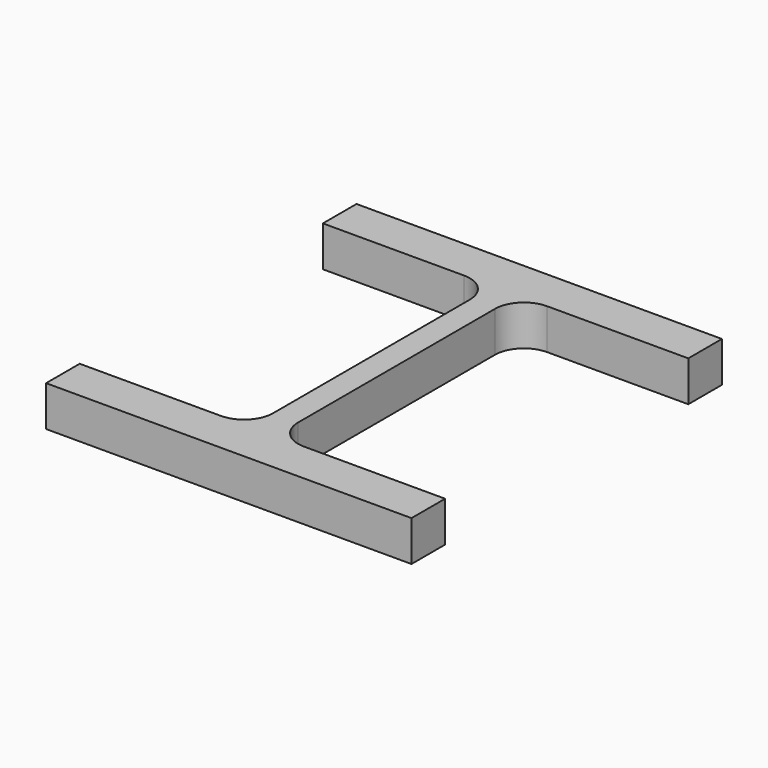
from build123d import *

# Parameters (mm, degrees)
F1_DEPTH = 25


with BuildPart() as f1:
    # F0 (on Top) → F1 (new body)
    with BuildSketch(Plane.XY):
        with BuildLine():
            Line((226, 0), (0, 0))
            Line((0, 0), (0, -26))
            Line((0, -26), (87.25, -26))
            ThreePointArc((87.25, -26), (99.977922, -31.272078), (105.25, -44))
            Line((105.25, -44), (105.25, -196))
            ThreePointArc((105.25, -196), (99.977922, -208.727922), (87.25, -214))
            Line((87.25, -214), (0, -214))
            Line((0, -214), (0, -240))
            Line((0, -240), (226, -240))
            Line((226, -240), (226, -214))
            Line((226, -214), (138.75, -214))
            ThreePointArc((138.75, -214), (126.022078, -208.727922), (120.75, -196))
            Line((120.75, -196), (120.75, -44))
            ThreePointArc((120.75, -44), (126.022078, -31.272078), (138.75, -26))
            Line((138.75, -26), (226, -26))
            Line((226, -26), (226, 0))
        make_face()
    extrude(amount=F1_DEPTH)


solid = f1.part
